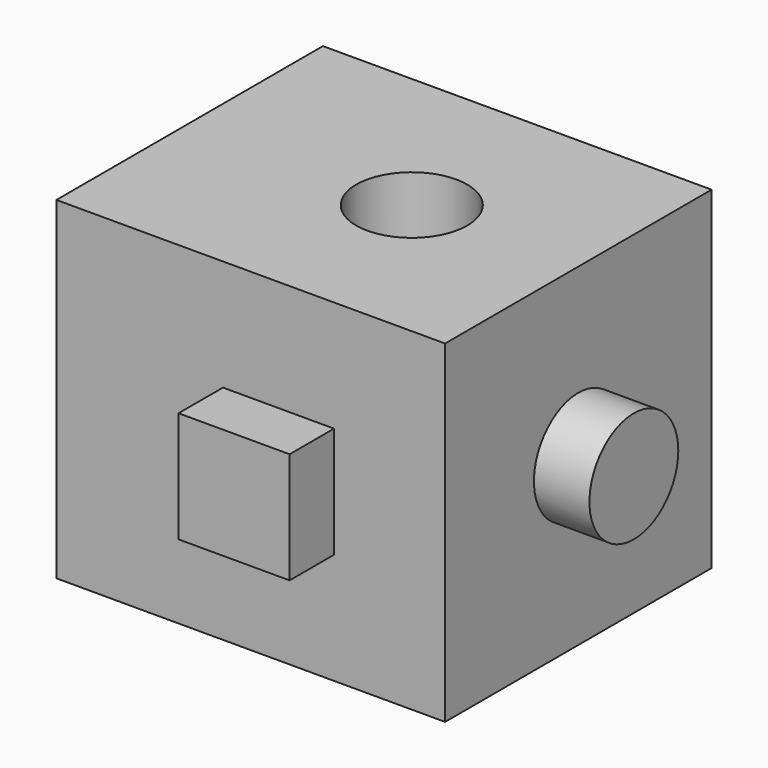
from build123d import *

# Parameters (mm, degrees)
F0_W     = 76.2
F0_H     = 76.2
F1_DEPTH = 76.2
F2_R     = 12.7
F3_DEPTH = 12.7
F5_D     = 25.4
F6_W     = 25.4
F6_H     = 25.4
F7_DEPTH = 12.7
F8_W     = 76.2
F8_H     = 76.2
F9_DEPTH = 12.7


with BuildPart() as f1:
    # F0 (on Front) → F1 (new body)
    with BuildSketch(Plane.XZ):
        with Locations((-37.473612465, 35.9543495976)):
            Rectangle(F0_W, F0_H)
    extrude(amount=F1_DEPTH)

    # F2 (on face) → F3 (join)
    with BuildSketch(Plane.YZ.offset(0.626387535)):
        with Locations((-38.1, 35.9543495976)):
            Circle(F2_R)
    extrude(amount=F3_DEPTH)

    # F5 (through all)
    with Locations(Plane.XY.offset(74.0543495976)):
        with Locations((-37.473612465, -38.1)):
            Hole(F5_D / 2)

    # F6 (on face) → F7 (join)
    with BuildSketch(Plane.XZ.offset(76.2)):
        with Locations((-37.473612465, 35.9543495976)):
            Rectangle(F6_W, F6_H)
    extrude(amount=F7_DEPTH)

    # F8 (on face) → F9 (join)
    with BuildSketch(Plane(origin=(-75.573612465, 0, 0), x_dir=(0, -1, 0), z_dir=(-1, 0, 0))):
        with Locations((38.1, 35.9543495976)):
            Rectangle(F8_W, F8_H)
        Polygon((23.0061305957, 44.0499627439), (48.0005134924, 48.5711156515), (39.4187553165, 24.6647686573), align=None, mode=Mode.SUBTRACT)
        Polygon((39.4187553165, 24.6647686573), (48.0005134924, 48.5711156515), (23.0061305957, 44.0499627439), align=None)
    extrude(amount=F9_DEPTH)


solid = f1.part
